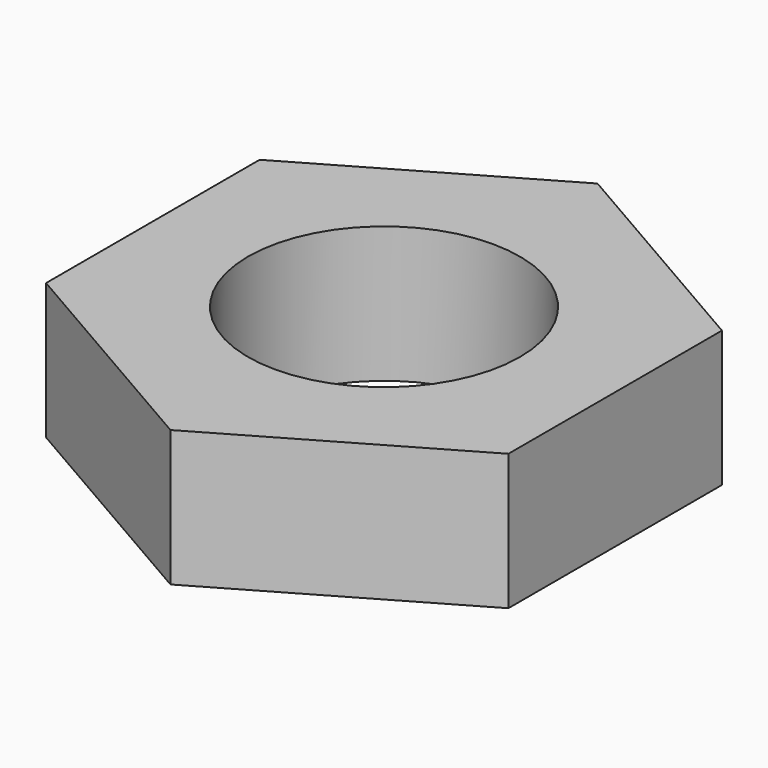
from build123d import *

# Parameters (mm, degrees)
SKETCH_R  = 5
PAD_DEPTH = 5


with BuildPart() as part:
    # Sketch → Pad (new body)
    with BuildSketch(Plane.XY):
        Polygon((0, -9.814955), (8.5, -4.907477), (8.5, 4.907477), (0, 9.814955), (-8.5, 4.907477), (-8.5, -4.907477), align=None)
        Circle(SKETCH_R, mode=Mode.SUBTRACT)
    extrude(amount=PAD_DEPTH)


solid = part.part
